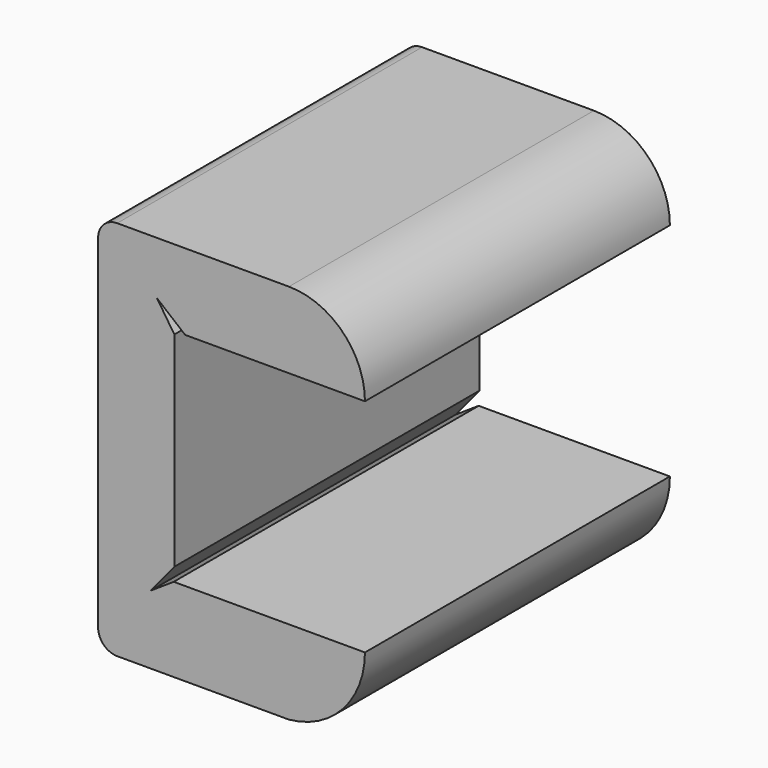
from build123d import *

# Parameters (mm, degrees)
F1_DEPTH = 5


with BuildPart() as f1:
    # F0 (on Front) → F1 (new body, symmetric)
    with BuildSketch(Plane.XZ):
        with BuildLine():
            Line((5, 0), (0, 0))
            Line((0, 0), (-0.016378, 0))
            Line((-0.016378, 0), (-0.617307, -0.397922))
            Line((-0.617307, -0.397922), (0, 0.353466))
            Line((0, 0.353466), (0, 5.71834))
            Line((0, 5.71834), (-0.456822, 6.408219))
            Line((-0.456822, 6.408219), (0.283503, 5.8))
            Line((0.283503, 5.8), (5, 5.8))
            ThreePointArc((5, 5.8), (4.416528, 7.2119), (3.00655, 7.8))
            Line((3.00655, 7.8), (-1.5, 7.8))
            ThreePointArc((-1.5, 7.8), (-1.853553, 7.653553), (-2, 7.3))
            Line((-2, 7.3), (-2, -1.7))
            ThreePointArc((-2, -1.7), (-1.853553, -2.053553), (-1.5, -2.2))
            Line((-1.5, -2.2), (3.00655, -2.2))
            ThreePointArc((3.00655, -2.2), (4.427511, -1.484406), (5, 0))
        make_face()
    extrude(amount=F1_DEPTH, both=True)


solid = f1.part
